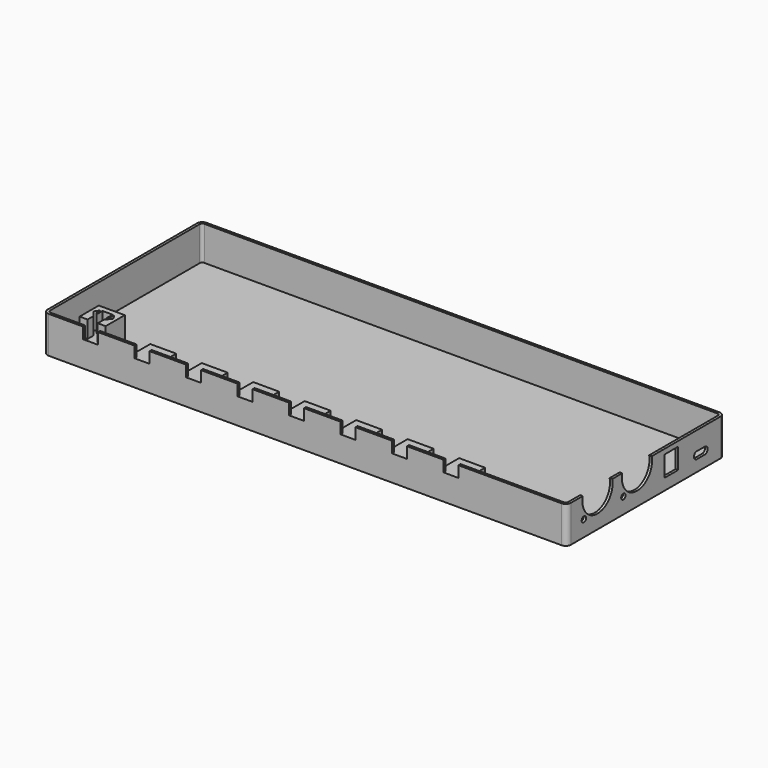
from build123d import *

# Parameters (mm, degrees)
PAD_DEPTH       = 1.5
PAD001_DEPTH    = 20
SKETCH003_R     = 11
SKETCH003_R_2   = 1.6
SKETCH003_W     = 10
SKETCH003_H     = 12
POCKET_DEPTH    = 1.5
POCKET001_DEPTH = 1.5
SKETCH005_W     = 15.15
SKETCH005_H     = 10
PAD002_DEPTH    = 13.93
PAD003_DEPTH    = 10
POCKET002_DEPTH = 225.15


with BuildPart() as part:
    # Sketch → Pad (new body)
    with BuildSketch(Plane.XY):
        with BuildLine():
            Line((-149.5, 57.5), (149.5, 57.5))
            ThreePointArc((152.5, 54.5), (151.62132, 56.62132), (149.5, 57.5))
            Line((152.5, 54.5), (152.5, -54.5))
            ThreePointArc((149.5, -57.5), (151.62132, -56.62132), (152.5, -54.5))
            Line((149.5, -57.5), (-149.5, -57.5))
            ThreePointArc((-152.5, -54.5), (-151.62132, -56.62132), (-149.5, -57.5))
            Line((-152.5, -54.5), (-152.5, 54.5))
            ThreePointArc((-149.5, 57.5), (-151.62132, 56.62132), (-152.5, 54.5))
        make_face()
    extrude(amount=PAD_DEPTH)

    # Sketch002 (on DatumPlane) → Pad001 (join)
    with BuildSketch(Plane.XY.offset(1.5)):
        with BuildLine():
            Line((-149.5, 57.5), (149.5, 57.5))
            ThreePointArc((152.5, 54.5), (151.62132, 56.62132), (149.5, 57.5))
            Line((152.5, 54.5), (152.5, -54.5))
            ThreePointArc((149.5, -57.5), (151.62132, -56.62132), (152.5, -54.5))
            Line((149.5, -57.5), (-149.5, -57.5))
            ThreePointArc((-152.5, -54.5), (-151.62132, -56.62132), (-149.5, -57.5))
            Line((-152.5, -54.5), (-152.5, 54.5))
            ThreePointArc((-149.5, 57.5), (-151.62132, 56.62132), (-152.5, 54.5))
        make_face()
        with BuildLine():
            Line((-149.5, 56), (149.5, 56))
            ThreePointArc((151, 54.5), (150.56066, 55.56066), (149.5, 56))
            Line((151, 54.5), (151, -54.5))
            ThreePointArc((149.5, -56), (150.56066, -55.56066), (151, -54.5))
            Line((149.5, -56), (-149.5, -56))
            ThreePointArc((-151, -54.5), (-150.56066, -55.56066), (-149.5, -56))
            Line((-151, -54.5), (-151, 54.5))
            ThreePointArc((-149.5, 56), (-150.56066, 55.56066), (-151, 54.5))
        make_face(mode=Mode.SUBTRACT)
    extrude(amount=PAD001_DEPTH)

    # Sketch003 (on DatumPlane) → Pocket (cut)
    with BuildSketch(Plane.YZ.offset(152.5)):
        with Locations((-35.11, 19.1)):
            Circle(SKETCH003_R)
        with Locations((-6.335, 19.1)):
            Circle(SKETCH003_R)
        with Locations((-25.21, 29)):
            Circle(SKETCH003_R_2)
        with Locations((-45.01, 9.2)):
            Circle(SKETCH003_R_2)
        with Locations((-16.235, 9.2)):
            Circle(SKETCH003_R_2)
        with Locations((3.565, 29)):
            Circle(SKETCH003_R_2)
        with Locations((18.655, 12.6)):
            Rectangle(SKETCH003_W, SKETCH003_H)
        with BuildLine():
            ThreePointArc((37.245, 10.73), (35.18, 8.665), (37.245, 6.6))
            Line((37.245, 6.6), (43.065, 6.6))
            ThreePointArc((43.065, 6.6), (45.13, 8.665), (43.065, 10.73))
            Line((37.245, 10.73), (43.065, 10.73))
        make_face()
    extrude(amount=-POCKET_DEPTH, mode=Mode.SUBTRACT)

    # Sketch004 (on DatumPlane) → Pocket001 (cut)
    with BuildSketch(Plane.XZ.offset(57.5)):
        Polygon((-120.6, 23.5), (-120.6, 15), (-129.4, 15), (-129.4, 23.5), (-127.075, 23.5), (-127.075, 26.4), (-122.925, 26.4), (-122.925, 23.5), align=None)
        Polygon((-90.6, 23.5), (-90.6, 15), (-99.4, 15), (-99.4, 23.5), (-97.075, 23.5), (-97.075, 26.4), (-92.925, 26.4), (-92.925, 23.5), align=None)
        Polygon((-60.6, 23.5), (-60.6, 15), (-69.4, 15), (-69.4, 23.5), (-67.075, 23.5), (-67.075, 26.4), (-62.925, 26.4), (-62.925, 23.5), align=None)
        Polygon((-30.6, 23.5), (-30.6, 15), (-39.4, 15), (-39.4, 23.5), (-37.075, 23.5), (-37.075, 26.4), (-32.925, 26.4), (-32.925, 23.5), align=None)
        Polygon((-0.6, 23.5), (-0.6, 15), (-9.4, 15), (-9.4, 23.5), (-7.075, 23.5), (-7.075, 26.4), (-2.925, 26.4), (-2.925, 23.5), align=None)
        Polygon((29.4, 23.5), (29.4, 15), (20.6, 15), (20.6, 23.5), (22.925, 23.5), (22.925, 26.4), (27.075, 26.4), (27.075, 23.5), align=None)
        Polygon((59.4, 23.5), (59.4, 15), (50.6, 15), (50.6, 23.5), (52.925, 23.5), (52.925, 26.4), (57.075, 26.4), (57.075, 23.5), align=None)
        Polygon((89.4, 23.5), (89.4, 15), (80.6, 15), (80.6, 23.5), (82.925, 23.5), (82.925, 26.4), (87.075, 26.4), (87.075, 23.5), align=None)
    extrude(amount=-POCKET001_DEPTH, mode=Mode.SUBTRACT)

    # Sketch005 (on DatumPlane) → Pad002 (join)
    with BuildSketch(Plane(origin=(0, -56, 0), x_dir=(-1, 0, 0), z_dir=(0, 1, 0))):
        with Locations((-85, 10)):
            Rectangle(SKETCH005_W, SKETCH005_H)
        with Locations((-55, 10)):
            Rectangle(SKETCH005_W, SKETCH005_H)
        with Locations((-25, 10)):
            Rectangle(SKETCH005_W, SKETCH005_H)
        with Locations((5, 10)):
            Rectangle(SKETCH005_W, SKETCH005_H)
        with Locations((35, 10)):
            Rectangle(SKETCH005_W, SKETCH005_H)
        with Locations((65, 10)):
            Rectangle(SKETCH005_W, SKETCH005_H)
        with Locations((95, 10)):
            Rectangle(SKETCH005_W, SKETCH005_H)
        with Locations((125, 10)):
            Rectangle(SKETCH005_W, SKETCH005_H)
    extrude(amount=PAD002_DEPTH)

    # Sketch007 (on DatumPlane) → Pad003 (join)
    with BuildSketch(Plane.XY.offset(15)):
        Polygon((-127.955, -56), (-127.955, -51.6), (-130.775, -48), (-128.855, -45.17), (-128.855, -48.34294), (-127.955, -49.491876), (-127.955, -45.17), (-122.045, -45.17), (-122.045, -49.491876), (-121.145, -48.34294), (-121.145, -45.17), (-119.225, -48), (-122.045, -51.6), (-122.045, -56), (-117.425, -56), (-117.425, -42.07), (-132.575, -42.07), (-132.575, -56), align=None)
    extrude(amount=PAD003_DEPTH)

    # Sketch006 (on DatumPlane) → Pocket002 (cut)
    with BuildSketch(Plane(origin=(-132.575, 0, 0), x_dir=(0, -1, 0), z_dir=(-1, 0, 0))):
        with BuildLine():
            Line((41.07, 4), (41.07, 15))
            Line((41.07, 15), (42.07, 15))
            Line((42.07, 15), (42.07, 12))
            add(Edge.make_bspline(
                [(42.07, 12), (41.925713, 10.887414), (47.736374, 8.588893), (55.790394, 7.00751), (56, 5)],
                knots=[0, 0, 0, 0, 0.5, 1, 1, 1, 1], degree=3))
            Line((56, 5), (56, 4))
            Line((56, 4), (41.07, 4))
        make_face()
    extrude(amount=-POCKET002_DEPTH, mode=Mode.SUBTRACT)


solid = part.part
